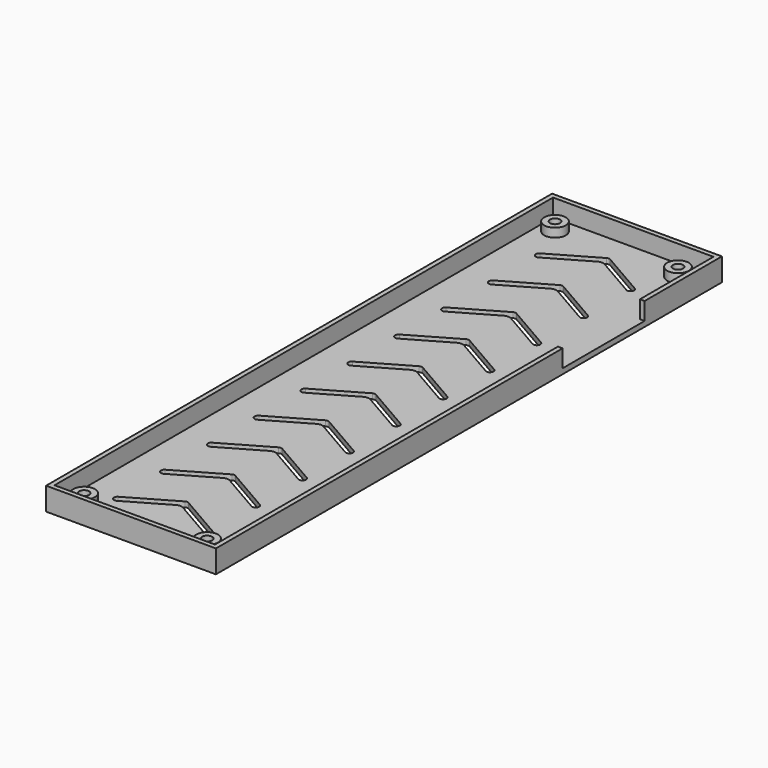
from build123d import *

# Parameters (mm, degrees)
F0_R     = 3.7
F0_W     = 1.6
F0_H     = 35
F1_DEPTH = 1.8
F0_R_2   = 1.7
F2_DEPTH = 4.8
F3_DEPTH = 7.8


with BuildPart() as f1:
    # F0 (on Top) → F1 (new body)
    with BuildSketch(Plane.XY):
        Polygon((56.4, -68), (56.4, -33), (56.4, -1.6), (1.6, -1.6), (1.6, -214.4), (56.4, -214.4), align=None)
        with Locations((7, -208.5)):
            Circle(F0_R, mode=Mode.SUBTRACT)
        with BuildLine():
            Line((11.811543, -199.96077), (27.4, -190.96077))
            ThreePointArc((27.4, -190.96077), (28, -190.8), (28.6, -190.96077))
            Line((28.6, -190.96077), (44.188457, -199.96077))
            ThreePointArc((44.188457, -199.96077), (44.627688, -201.6), (42.988457, -202.03923))
            Line((42.988457, -202.03923), (29.2, -194.078461))
            ThreePointArc((29.2, -194.078461), (28, -193.756922), (26.8, -194.078461))
            Line((26.8, -194.078461), (13.011543, -202.03923))
            ThreePointArc((13.011543, -202.03923), (11.372312, -201.6), (11.811543, -199.96077))
        make_face(mode=Mode.SUBTRACT)
        with BuildLine():
            Line((11.811543, -179.96077), (27.4, -170.96077))
            ThreePointArc((27.4, -170.96077), (28, -170.8), (28.6, -170.96077))
            Line((28.6, -170.96077), (44.188457, -179.96077))
            ThreePointArc((44.188457, -179.96077), (44.627688, -181.6), (42.988457, -182.03923))
            Line((42.988457, -182.03923), (29.2, -174.078461))
            ThreePointArc((29.2, -174.078461), (28, -173.756922), (26.8, -174.078461))
            Line((26.8, -174.078461), (13.011543, -182.03923))
            ThreePointArc((13.011543, -182.03923), (11.372312, -181.6), (11.811543, -179.96077))
        make_face(mode=Mode.SUBTRACT)
        with BuildLine():
            Line((11.811543, -159.96077), (27.4, -150.96077))
            ThreePointArc((27.4, -150.96077), (28, -150.8), (28.6, -150.96077))
            Line((28.6, -150.96077), (44.188457, -159.96077))
            ThreePointArc((44.188457, -159.96077), (44.627688, -161.6), (42.988457, -162.03923))
            Line((42.988457, -162.03923), (29.2, -154.078461))
            ThreePointArc((29.2, -154.078461), (28, -153.756922), (26.8, -154.078461))
            Line((26.8, -154.078461), (13.011543, -162.03923))
            ThreePointArc((13.011543, -162.03923), (11.372312, -161.6), (11.811543, -159.96077))
        make_face(mode=Mode.SUBTRACT)
        with BuildLine():
            Line((11.811543, -139.96077), (27.4, -130.96077))
            ThreePointArc((27.4, -130.96077), (28, -130.8), (28.6, -130.96077))
            Line((28.6, -130.96077), (44.188457, -139.96077))
            ThreePointArc((44.188457, -139.96077), (44.627688, -141.6), (42.988457, -142.03923))
            Line((42.988457, -142.03923), (29.2, -134.078461))
            ThreePointArc((29.2, -134.078461), (28, -133.756922), (26.8, -134.078461))
            Line((26.8, -134.078461), (13.011543, -142.03923))
            ThreePointArc((13.011543, -142.03923), (11.372312, -141.6), (11.811543, -139.96077))
        make_face(mode=Mode.SUBTRACT)
        with BuildLine():
            Line((11.811543, -119.96077), (27.4, -110.96077))
            ThreePointArc((27.4, -110.96077), (28, -110.8), (28.6, -110.96077))
            Line((28.6, -110.96077), (44.188457, -119.96077))
            ThreePointArc((44.188457, -119.96077), (44.627688, -121.6), (42.988457, -122.03923))
            Line((42.988457, -122.03923), (29.2, -114.078461))
            ThreePointArc((29.2, -114.078461), (28, -113.756922), (26.8, -114.078461))
            Line((26.8, -114.078461), (13.011543, -122.03923))
            ThreePointArc((13.011543, -122.03923), (11.372312, -121.6), (11.811543, -119.96077))
        make_face(mode=Mode.SUBTRACT)
        with Locations((49, -208.5)):
            Circle(F0_R, mode=Mode.SUBTRACT)
        with BuildLine():
            Line((11.811543, -99.96077), (27.4, -90.96077))
            ThreePointArc((27.4, -90.96077), (28, -90.8), (28.6, -90.96077))
            Line((28.6, -90.96077), (44.188457, -99.96077))
            ThreePointArc((44.188457, -99.96077), (44.627688, -101.6), (42.988457, -102.03923))
            Line((42.988457, -102.03923), (29.2, -94.078461))
            ThreePointArc((29.2, -94.078461), (28, -93.756922), (26.8, -94.078461))
            Line((26.8, -94.078461), (13.011543, -102.03923))
            ThreePointArc((13.011543, -102.03923), (11.372312, -101.6), (11.811543, -99.96077))
        make_face(mode=Mode.SUBTRACT)
        with BuildLine():
            Line((11.811543, -79.96077), (27.4, -70.96077))
            ThreePointArc((27.4, -70.96077), (28, -70.8), (28.6, -70.96077))
            Line((28.6, -70.96077), (44.188457, -79.96077))
            ThreePointArc((44.188457, -79.96077), (44.627688, -81.6), (42.988457, -82.03923))
            Line((42.988457, -82.03923), (29.2, -74.078461))
            ThreePointArc((29.2, -74.078461), (28, -73.756922), (26.8, -74.078461))
            Line((26.8, -74.078461), (13.011543, -82.03923))
            ThreePointArc((13.011543, -82.03923), (11.372312, -81.6), (11.811543, -79.96077))
        make_face(mode=Mode.SUBTRACT)
        with BuildLine():
            Line((11.811543, -59.96077), (27.4, -50.96077))
            ThreePointArc((27.4, -50.96077), (28, -50.8), (28.6, -50.96077))
            Line((28.6, -50.96077), (44.188457, -59.96077))
            ThreePointArc((44.188457, -59.96077), (44.627688, -61.6), (42.988457, -62.03923))
            Line((42.988457, -62.03923), (29.2, -54.078461))
            ThreePointArc((29.2, -54.078461), (28, -53.756922), (26.8, -54.078461))
            Line((26.8, -54.078461), (13.011543, -62.03923))
            ThreePointArc((13.011543, -62.03923), (11.372312, -61.6), (11.811543, -59.96077))
        make_face(mode=Mode.SUBTRACT)
        with Locations((7, -7.5)):
            Circle(F0_R, mode=Mode.SUBTRACT)
        with BuildLine():
            Line((11.811543, -39.96077), (27.4, -30.96077))
            ThreePointArc((27.4, -30.96077), (28, -30.8), (28.6, -30.96077))
            Line((28.6, -30.96077), (44.188457, -39.96077))
            ThreePointArc((44.188457, -39.96077), (44.627688, -41.6), (42.988457, -42.03923))
            Line((42.988457, -42.03923), (29.2, -34.078461))
            ThreePointArc((29.2, -34.078461), (28, -33.756922), (26.8, -34.078461))
            Line((26.8, -34.078461), (13.011543, -42.03923))
            ThreePointArc((13.011543, -42.03923), (11.372312, -41.6), (11.811543, -39.96077))
        make_face(mode=Mode.SUBTRACT)
        with BuildLine():
            Line((11.811543, -19.96077), (27.4, -10.96077))
            ThreePointArc((27.4, -10.96077), (28, -10.8), (28.6, -10.96077))
            Line((28.6, -10.96077), (44.188457, -19.96077))
            ThreePointArc((44.188457, -19.96077), (44.627688, -21.6), (42.988457, -22.03923))
            Line((42.988457, -22.03923), (29.2, -14.078461))
            ThreePointArc((29.2, -14.078461), (28, -13.756922), (26.8, -14.078461))
            Line((26.8, -14.078461), (13.011543, -22.03923))
            ThreePointArc((13.011543, -22.03923), (11.372312, -21.6), (11.811543, -19.96077))
        make_face(mode=Mode.SUBTRACT)
        with Locations((49, -7.5)):
            Circle(F0_R, mode=Mode.SUBTRACT)
        with Locations((57.2, -50.5)):
            Rectangle(F0_W, F0_H)
    extrude(amount=F1_DEPTH)

    # F0 (on Top) → F2 (join)
    with BuildSketch(Plane.XY):
        with Locations((7, -7.5)):
            Circle(F0_R)
        with Locations((7, -7.5)):
            Circle(F0_R_2, mode=Mode.SUBTRACT)
        with Locations((49, -7.5)):
            Circle(F0_R)
        with Locations((49, -7.5)):
            Circle(F0_R_2, mode=Mode.SUBTRACT)
        with Locations((49, -208.5)):
            Circle(F0_R)
        with Locations((49, -208.5)):
            Circle(F0_R_2, mode=Mode.SUBTRACT)
        with Locations((7, -208.5)):
            Circle(F0_R)
        with Locations((7, -208.5)):
            Circle(F0_R_2, mode=Mode.SUBTRACT)
    extrude(amount=F2_DEPTH)

    # F0 (on Top) → F3 (join)
    with BuildSketch(Plane.XY):
        Polygon((58, 0), (0, 0), (0, -216), (58, -216), (58, -68), (56.4, -68), (56.4, -214.4), (1.6, -214.4), (1.6, -1.6), (56.4, -1.6), (56.4, -33), (58, -33), align=None)
    extrude(amount=F3_DEPTH)


solid = f1.part
